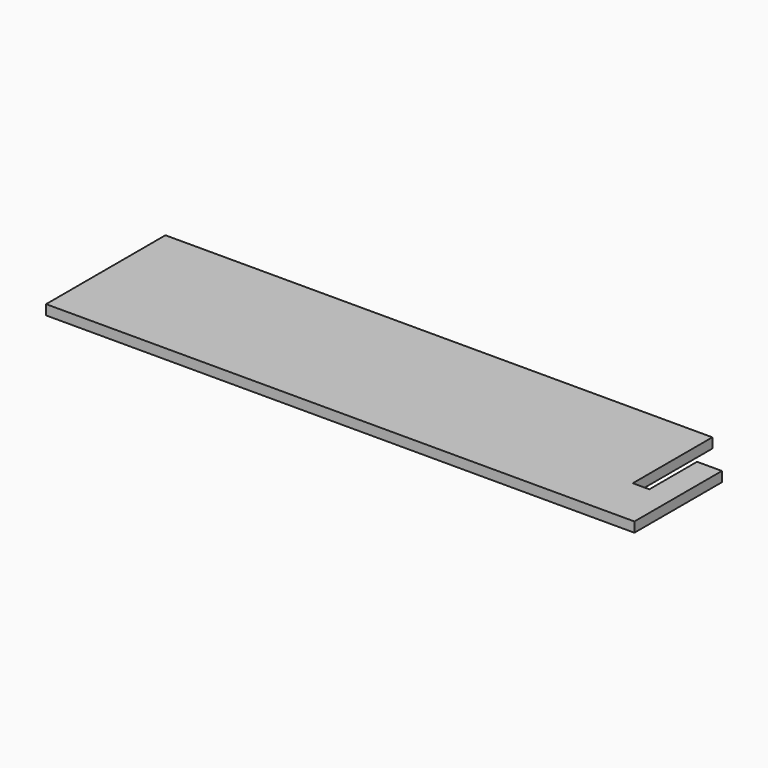
from build123d import *

# Parameters (mm, degrees)
F0_W     = 5
F0_H     = 12
F1_DEPTH = 2


with BuildPart() as f1:
    # F0 (on Top) → F1 (new body)
    with BuildSketch(Plane.XY):
        Polygon((55, 15), (-55, 15), (-55, -15), (55, -15), (55, -5), align=None)
        Polygon((58.323994, -5), (55, -5), (55, -15), (63.323994, -15), (63.323994, -5), align=None)
        with Locations((60.823994, 1)):
            Rectangle(F0_W, F0_H)
    extrude(amount=F1_DEPTH)


solid = f1.part
